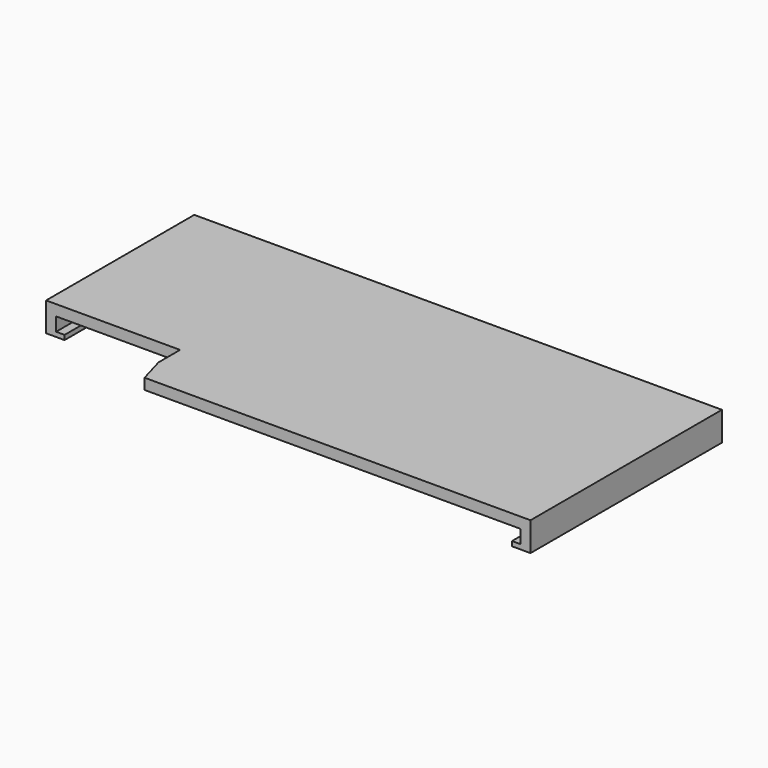
from build123d import *

# Parameters (mm, degrees)
F1_DEPTH = 1.4
F2_W     = 1.3
F2_H     = 31
F2_H_2   = 24
F2_W_2   = 59
F2_H_3   = 1.4
F3_DEPTH = 1.75
F4_W     = 2.4
F4_H     = 31
F4_H_2   = 24
F4_W_2   = 59
F4_H_3   = 1.4
F5_DEPTH = 0.6


with BuildPart() as f1:
    # F0 (on Top) → F1 (new body)
    with BuildSketch(Plane.XY):
        Polygon((68.36, 0), (0, 0), (0, -24), (17.36, -24), (17.36, -27.5), (18.36, -31), (68.36, -31), align=None)
    extrude(amount=F1_DEPTH)

    # F2 (on face) → F3 (join)
    with BuildSketch(Plane(origin=(0, 0, 0), x_dir=(1, 0, 0), z_dir=(0, 0, -1))):
        with Locations((67.71, 15.5)):
            Rectangle(F2_W, F2_H)
        with Locations((0.65, 12)):
            Rectangle(F2_W, F2_H_2)
        with Locations((34.36, 0.7)):
            Rectangle(F2_W_2, F2_H_3)
    extrude(amount=F3_DEPTH)

    # F4 (on face) → F5 (join)
    with BuildSketch(Plane(origin=(0, 0, -1.75), x_dir=(1, 0, 0), z_dir=(0, 0, -1))):
        with Locations((67.16, 15.5)):
            Rectangle(F4_W, F4_H)
        with Locations((1.2, 12)):
            Rectangle(F4_W, F4_H_2)
        with Locations((34.36, 0.7)):
            Rectangle(F4_W_2, F4_H_3)
    extrude(amount=F5_DEPTH)


solid = f1.part
